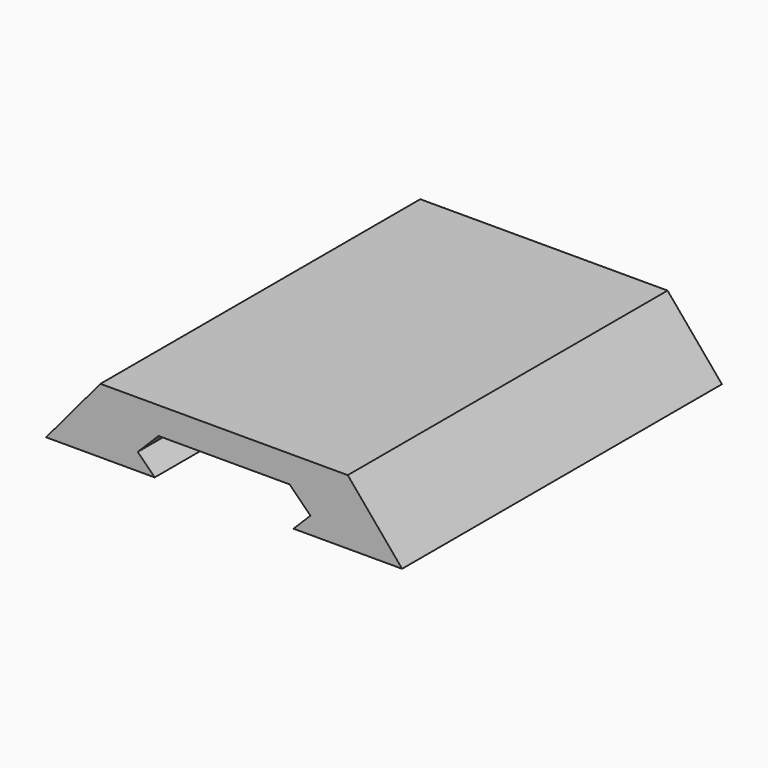
from build123d import *

# Parameters (mm, degrees)
F1_DEPTH = 50


with BuildPart() as f1:
    # F0 (on Front) → F1 (new body)
    with BuildSketch(Plane.XZ):
        Polygon((-10.8, -5.980725), (-8.2, -3.380725), (0, -3.380725), (0, 0), (-15.465969, 0), (-22.264392, -8.102045), (-8.67868, -8.102045), align=None)
        Polygon((0, 0), (0, -3.380725), (8.2, -3.380725), (10.8, -5.980725), (8.67868, -8.102045), (22.264392, -8.102045), (15.465969, 0), align=None)
    extrude(amount=F1_DEPTH)


solid = f1.part
